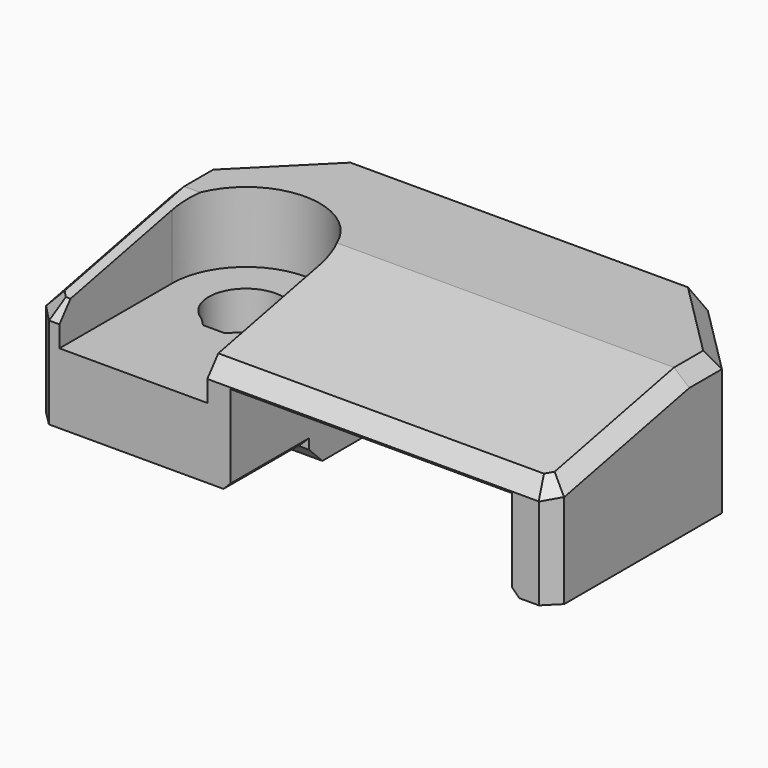
from build123d import *

# Parameters (mm, degrees)
SKETCH003_W         = 36.8
SKETCH003_H         = 20
PAD001_DEPTH        = 10
SKETCH004_W         = 20
SKETCH004_H         = 16.4
POCKET002_DEPTH     = 6.4
LINEARPATTERN_COUNT = 2
LINEARPATTERN_PITCH = 9.5
PAD002_DEPTH        = 13.9
SKETCH007_R         = 2.65
POCKET003_DEPTH     = 11.401
POCKET004_DEPTH     = 5
POCKET005_DEPTH     = 36.801
SKETCH010_W         = 2.8
SKETCH010_H         = 3.6
POCKET006_DEPTH     = 1.5
FILLET_R            = 0.5
CHAMFER_SIZE        = 1
CHAMFER001_SIZE     = 5
CHAMFER002_SIZE     = 1
CHAMFER003_SIZE     = 0.5
CHAMFER004_SIZE     = 1
POCKET007_DEPTH     = 6.401


with BuildPart() as x_negative:
    # Sketch003 (on Face2 of ShapeBinder) → Pad001 (new body)
    with BuildSketch(Plane.XY.offset(10)):
        with Locations((60.2, 0)):
            Rectangle(SKETCH003_W, SKETCH003_H)
    extrude(amount=PAD001_DEPTH)

    # Sketch004 (on Face5 of Pad001) → Pocket002 (cut)
    with BuildSketch(Plane(origin=(0, 0, 10), x_dir=(1, 0, 0), z_dir=(0, 0, -1))):
        with Locations((54.7, 1.8)):
            Rectangle(SKETCH004_W, SKETCH004_H)
    extrude(amount=-POCKET002_DEPTH, mode=Mode.SUBTRACT)

    # Sketch005 (on DatumPlane) → Revolution (revolve)
    with BuildSketch(Plane.XZ.offset(3)):
        Polygon((50, 15.85), (50.5, 15.85), (51.05, 16.4), (50, 16.4), align=None)
    revolution = revolve(axis=Axis((50, -3, 15.85), (0, 0, -1)))

    # LinearPattern: Revolution ×2
    with Locations(*[(i * LINEARPATTERN_PITCH, 0, 0) for i in range(1, LINEARPATTERN_COUNT)]):
        add(revolution)

    # Sketch006 (on Face3 of LinearPattern) → Pad002 (join)
    with BuildSketch(Plane.YZ.offset(78.6)):
        Polygon((-3.025, 10), (3.025, 10), (3.025, 9.775), (1.85, 8.6), (-1.85, 8.6), (-3.025, 9.775), align=None)
    extrude(amount=-PAD002_DEPTH)

    # Sketch007 (on Face4 of Pad002) → Pocket003 (cut, through all)
    with BuildSketch(Plane.XY.offset(20)):
        with Locations((71.6, 0)):
            Circle(SKETCH007_R)
    extrude(amount=-POCKET003_DEPTH, mode=Mode.SUBTRACT)

    # Sketch008 (on Face5 of Pocket003) → Pocket004 (cut)
    with BuildSketch(Plane.XY.offset(20)):
        with BuildLine():
            ThreePointArc((76.85, 0), (71.6, 5.25), (66.35, 0))
            Line((66.35, -10), (66.35, 0))
            Line((76.85, -10), (66.35, -10))
            Line((76.85, 0), (76.85, -10))
        make_face()
    extrude(amount=-POCKET004_DEPTH, mode=Mode.SUBTRACT)

    # Sketch009 (on Face3 of Pocket004) → Pocket005 (cut, through all)
    with BuildSketch(Plane.YZ.offset(78.6)):
        Polygon((-10, 17.5), (2, 20), (-10, 20), align=None)
    extrude(amount=-POCKET005_DEPTH, mode=Mode.SUBTRACT)

    # Sketch010 (on Face4 of Pocket005) → Pocket006 (cut)
    with BuildSketch(Plane(origin=(0, 0, 10), x_dir=(1, 0, 0), z_dir=(0, 0, -1))):
        with Locations((63.3, -8.2)):
            Rectangle(SKETCH010_W, SKETCH010_H)
    extrude(amount=-POCKET006_DEPTH, mode=Mode.SUBTRACT)

    # Fillet
    fillet_edges = [x_negative.edges().sort_by_distance(p)[0] for p in [
        (61.9, 8.2, 11.5),
        (64.7, 8.2, 11.5),
    ]]
    fillet(fillet_edges, radius=FILLET_R)

    # Chamfer
    chamfer_edges = [x_negative.edges().sort_by_distance(p)[0] for p in [
        (78.6, -10, 13.75),
        (41.8, -10, 13.75),
    ]]
    chamfer(chamfer_edges, length=CHAMFER_SIZE)

    # Chamfer001
    chamfer001_edges = [x_negative.edges().sort_by_distance(p)[0] for p in [
        (78.6, 10, 15),
        (41.8, 10, 15),
    ]]
    chamfer(chamfer001_edges, length=CHAMFER001_SIZE)

    # Chamfer002
    chamfer002_edges = [x_negative.edges().sort_by_distance(p)[0] for p in [
        (64.7, 6.4, 13.95),
        (44.7, 6.4, 13.2),
    ]]
    chamfer(chamfer002_edges, length=CHAMFER002_SIZE)

    # Chamfer003
    chamfer003_edges = [x_negative.edges().sort_by_distance(p)[0] for p in [
        (44.7, -2.3, 10),
        (64.7, -6.5125, 10),
    ]]
    chamfer(chamfer003_edges, length=CHAMFER003_SIZE)

    # Chamfer004
    chamfer004_edges = [x_negative.edges().sort_by_distance(p)[0] for p in [
        (76.1, 7.5, 20),
        (78.6, 3.5, 20),
        (78.6, -3.5, 18.854167),
        (44.3, 7.5, 20),
        (41.8, 3.5, 20),
        (41.8, -3.5, 18.854167),
        (42.3, -9.5, 17.604167),
        (54.575, -10, 17.5),
        (77.225, -10, 17.5),
        (78.1, -9.5, 17.604167),
    ]]
    chamfer(chamfer004_edges, length=CHAMFER004_SIZE)

    # Sketch011 (on Face9 of Chamfer004) → Pocket007 (cut, through all)
    with BuildSketch(Plane.XY.offset(15)):
        Polygon((70.275, -2.294967), (70.831033, -2.851), (72.368967, -2.851), (72.925, -2.294967), align=None)
    extrude(amount=-POCKET007_DEPTH, mode=Mode.SUBTRACT)


with BuildPart() as x_positive:
    # Part__Mirroring: instance of x_negative
    add(x_negative.part.mirror(Plane(origin=(0, 0, 0), x_dir=(0, -1, 0), z_dir=(1, 0, 0))))


with BuildPart() as x_positive_1:
    # Part__Mirroring placement: moved
    add(x_positive.part.moved(Location((200, 0, 0))))


solid = x_positive_1.part
